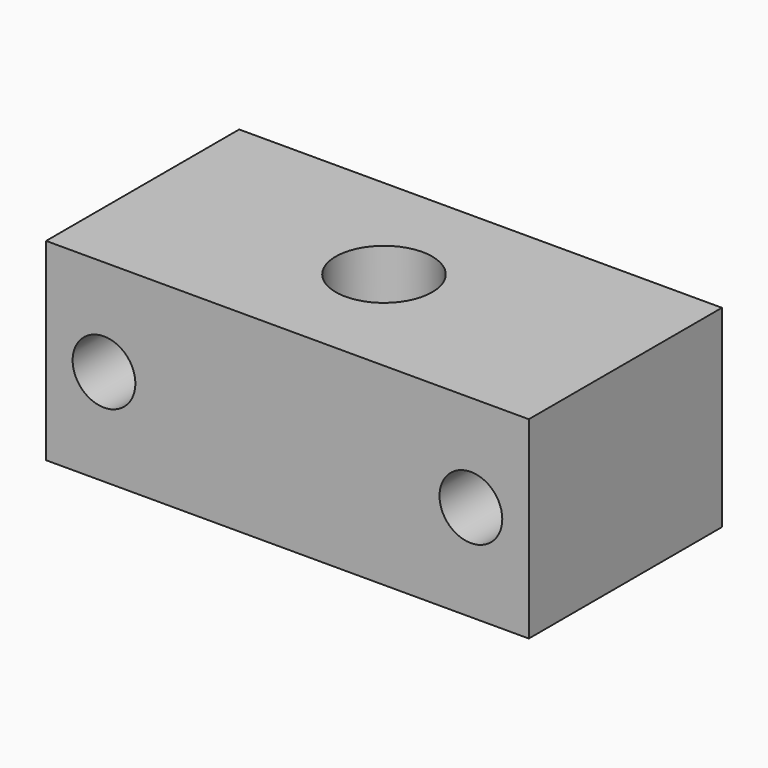
from build123d import *

# Parameters (mm, degrees)
F0_W     = 50
F0_H     = 20
F0_R     = 3.25
F1_DEPTH = 25
F2_R     = 5
F3_DEPTH = 20


with BuildPart() as f1:
    # F0 (on Front) → F1 (new body)
    with BuildSketch(Plane.XZ):
        with Locations((25, 10)):
            Rectangle(F0_W, F0_H)
        with Locations((6, 10)):
            Circle(F0_R, mode=Mode.SUBTRACT)
        with Locations((44, 10)):
            Circle(F0_R, mode=Mode.SUBTRACT)
    extrude(amount=-F1_DEPTH)


with BuildPart() as f3:
    # F2 (on Top) → F3 (new body)
    with BuildSketch(Plane.XY):
        with Locations((25, 12.5)):
            Circle(F2_R)
        with Locations((25, 12.5)):
            Circle(F2_R)
    extrude(amount=F3_DEPTH)


with BuildPart() as f1_1:
    add(f1.part)

    # F4: cut F3
    add(f3.part, mode=Mode.SUBTRACT)


solid = f1_1.part
